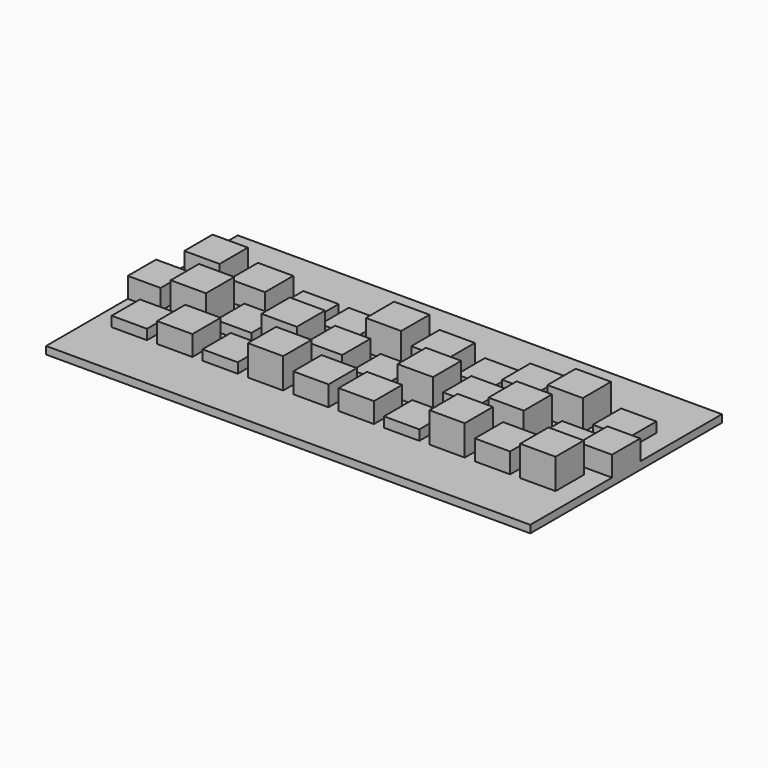
from build123d import *

# Parameters (mm, degrees)
F0_W     = 88.9
F0_H     = 88.9
F0_W_2   = 82.55
F1_DEPTH = 19.05
F2_DEPTH = 25.4
F3_DEPTH = 76.2
F4_DEPTH = 50.8


with BuildPart() as f1:
    # F0 (on Top) → F1 (new body)
    with BuildSketch(Plane.XY):
        Polygon((609.6, 301.625), (-609.6, 301.625), (-609.6, 44.577), (-527.05, 44.577), (-527.05, -44.323), (-609.6, -44.323), (-609.6, -301.625), (609.6, -301.625), (609.6, -44.323), (527.05, -44.323), (527.05, 44.577), (609.6, 44.577), align=None)
        with Locations((-514.35, -114.173)):
            Rectangle(F0_W, F0_H, mode=Mode.SUBTRACT)
        with Locations((-400.05, -114.173)):
            Rectangle(F0_W, F0_H, mode=Mode.SUBTRACT)
        with Locations((-285.75, -114.173)):
            Rectangle(F0_W, F0_H, mode=Mode.SUBTRACT)
        with Locations((-171.45, -114.173)):
            Rectangle(F0_W, F0_H, mode=Mode.SUBTRACT)
        with Locations((-57.15, -114.173)):
            Rectangle(F0_W, F0_H, mode=Mode.SUBTRACT)
        with Locations((57.15, -114.173)):
            Rectangle(F0_W, F0_H, mode=Mode.SUBTRACT)
        with Locations((171.45, -114.173)):
            Rectangle(F0_W, F0_H, mode=Mode.SUBTRACT)
        with Locations((285.75, -114.173)):
            Rectangle(F0_W, F0_H, mode=Mode.SUBTRACT)
        with Locations((400.05, -114.173)):
            Rectangle(F0_W, F0_H, mode=Mode.SUBTRACT)
        with Locations((514.35, -114.173)):
            Rectangle(F0_W, F0_H, mode=Mode.SUBTRACT)
        with Locations((-457.2, 0.127)):
            Rectangle(F0_W, F0_H, mode=Mode.SUBTRACT)
        with Locations((-342.9, 0.127)):
            Rectangle(F0_W, F0_H, mode=Mode.SUBTRACT)
        with Locations((-514.35, 114.427)):
            Rectangle(F0_W, F0_H, mode=Mode.SUBTRACT)
        with Locations((-400.05, 114.427)):
            Rectangle(F0_W, F0_H, mode=Mode.SUBTRACT)
        with Locations((-228.6, 0.127)):
            Rectangle(F0_W, F0_H, mode=Mode.SUBTRACT)
        with Locations((-114.3, 0.127)):
            Rectangle(F0_W, F0_H, mode=Mode.SUBTRACT)
        with Locations((-285.75, 114.427)):
            Rectangle(F0_W, F0_H, mode=Mode.SUBTRACT)
        with Locations((-171.45, 114.427)):
            Rectangle(F0_W, F0_H, mode=Mode.SUBTRACT)
        with Locations((-57.15, 114.427)):
            Rectangle(F0_W, F0_H, mode=Mode.SUBTRACT)
        with Locations((0, 0.127)):
            Rectangle(F0_W, F0_H, mode=Mode.SUBTRACT)
        with Locations((114.3, 0.127)):
            Rectangle(F0_W, F0_H, mode=Mode.SUBTRACT)
        with Locations((228.6, 0.127)):
            Rectangle(F0_W, F0_H, mode=Mode.SUBTRACT)
        with Locations((57.15, 114.427)):
            Rectangle(F0_W, F0_H, mode=Mode.SUBTRACT)
        with Locations((171.45, 114.427)):
            Rectangle(F0_W, F0_H, mode=Mode.SUBTRACT)
        with Locations((285.75, 114.427)):
            Rectangle(F0_W, F0_H, mode=Mode.SUBTRACT)
        with Locations((342.9, 0.127)):
            Rectangle(F0_W, F0_H, mode=Mode.SUBTRACT)
        with Locations((457.2, 0.127)):
            Rectangle(F0_W, F0_H, mode=Mode.SUBTRACT)
        with Locations((400.05, 114.427)):
            Rectangle(F0_W, F0_H, mode=Mode.SUBTRACT)
        with Locations((514.35, 114.427)):
            Rectangle(F0_W, F0_H, mode=Mode.SUBTRACT)
        with Locations((-400.05, -114.173)):
            Rectangle(F0_W, F0_H)
        with Locations((-514.35, -114.173)):
            Rectangle(F0_W, F0_H)
        with Locations((-457.2, 0.127)):
            Rectangle(F0_W, F0_H)
        with Locations((-514.35, 114.427)):
            Rectangle(F0_W, F0_H)
        with Locations((-400.05, 114.427)):
            Rectangle(F0_W, F0_H)
        with Locations((-342.9, 0.127)):
            Rectangle(F0_W, F0_H)
        with Locations((-285.75, -114.173)):
            Rectangle(F0_W, F0_H)
        with Locations((-171.45, -114.173)):
            Rectangle(F0_W, F0_H)
        with Locations((-228.6, 0.127)):
            Rectangle(F0_W, F0_H)
        with Locations((-285.75, 114.427)):
            Rectangle(F0_W, F0_H)
        with Locations((-171.45, 114.427)):
            Rectangle(F0_W, F0_H)
        with Locations((-114.3, 0.127)):
            Rectangle(F0_W, F0_H)
        with Locations((-57.15, -114.173)):
            Rectangle(F0_W, F0_H)
        with Locations((57.15, -114.173)):
            Rectangle(F0_W, F0_H)
        with Locations((0, 0.127)):
            Rectangle(F0_W, F0_H)
        with Locations((-57.15, 114.427)):
            Rectangle(F0_W, F0_H)
        with Locations((57.15, 114.427)):
            Rectangle(F0_W, F0_H)
        with Locations((114.3, 0.127)):
            Rectangle(F0_W, F0_H)
        with Locations((171.45, -114.173)):
            Rectangle(F0_W, F0_H)
        with Locations((285.75, -114.173)):
            Rectangle(F0_W, F0_H)
        with Locations((228.6, 0.127)):
            Rectangle(F0_W, F0_H)
        with Locations((171.45, 114.427)):
            Rectangle(F0_W, F0_H)
        with Locations((342.9, 0.127)):
            Rectangle(F0_W, F0_H)
        with Locations((400.05, -114.173)):
            Rectangle(F0_W, F0_H)
        with Locations((285.75, 114.427)):
            Rectangle(F0_W, F0_H)
        with Locations((400.05, 114.427)):
            Rectangle(F0_W, F0_H)
        with Locations((457.2, 0.127)):
            Rectangle(F0_W, F0_H)
        with Locations((514.35, -114.173)):
            Rectangle(F0_W, F0_H)
        with Locations((514.35, 114.427)):
            Rectangle(F0_W, F0_H)
        with Locations((-568.325, 0.127)):
            Rectangle(F0_W_2, F0_H)
        with Locations((568.325, 0.127)):
            Rectangle(F0_W_2, F0_H)
    extrude(amount=-F1_DEPTH)

    # F0 (on Top) → F2 (join)
    with BuildSketch(Plane.XY):
        with Locations((514.35, 114.427)):
            Rectangle(F0_W, F0_H)
        with Locations((457.2, 0.127)):
            Rectangle(F0_W, F0_H)
        with Locations((171.45, -114.173)):
            Rectangle(F0_W, F0_H)
        with Locations((-514.35, -114.173)):
            Rectangle(F0_W, F0_H)
        with Locations((-342.9, 0.127)):
            Rectangle(F0_W, F0_H)
        with Locations((-285.75, -114.173)):
            Rectangle(F0_W, F0_H)
        with Locations((0, 0.127)):
            Rectangle(F0_W, F0_H)
        with Locations((171.45, 114.427)):
            Rectangle(F0_W, F0_H)
        with Locations((-285.75, 114.427)):
            Rectangle(F0_W, F0_H)
        with Locations((-171.45, 114.427)):
            Rectangle(F0_W, F0_H)
    extrude(amount=F2_DEPTH)

    # F0 (on Top) → F3 (join)
    with BuildSketch(Plane.XY):
        with Locations((514.35, -114.173)):
            Rectangle(F0_W, F0_H)
        with Locations((400.05, 114.427)):
            Rectangle(F0_W, F0_H)
        with Locations((342.9, 0.127)):
            Rectangle(F0_W, F0_H)
        with Locations((114.3, 0.127)):
            Rectangle(F0_W, F0_H)
        with Locations((-228.6, 0.127)):
            Rectangle(F0_W, F0_H)
        with Locations((-457.2, 0.127)):
            Rectangle(F0_W, F0_H)
        with Locations((285.75, -114.173)):
            Rectangle(F0_W, F0_H)
        with Locations((-171.45, -114.173)):
            Rectangle(F0_W, F0_H)
        with Locations((-514.35, 114.427)):
            Rectangle(F0_W, F0_H)
        with Locations((-57.15, 114.427)):
            Rectangle(F0_W, F0_H)
    extrude(amount=F3_DEPTH)

    # F0 (on Top) → F4 (join)
    with BuildSketch(Plane.XY):
        with Locations((-568.325, 0.127)):
            Rectangle(F0_W_2, F0_H)
        with Locations((-400.05, -114.173)):
            Rectangle(F0_W, F0_H)
        with Locations((-400.05, 114.427)):
            Rectangle(F0_W, F0_H)
        with Locations((57.15, 114.427)):
            Rectangle(F0_W, F0_H)
        with Locations((-114.3, 0.127)):
            Rectangle(F0_W, F0_H)
        with Locations((-57.15, -114.173)):
            Rectangle(F0_W, F0_H)
        with Locations((57.15, -114.173)):
            Rectangle(F0_W, F0_H)
        with Locations((228.6, 0.127)):
            Rectangle(F0_W, F0_H)
        with Locations((285.75, 114.427)):
            Rectangle(F0_W, F0_H)
        with Locations((400.05, -114.173)):
            Rectangle(F0_W, F0_H)
        with Locations((568.325, 0.127)):
            Rectangle(F0_W_2, F0_H)
    extrude(amount=F4_DEPTH)


solid = f1.part
